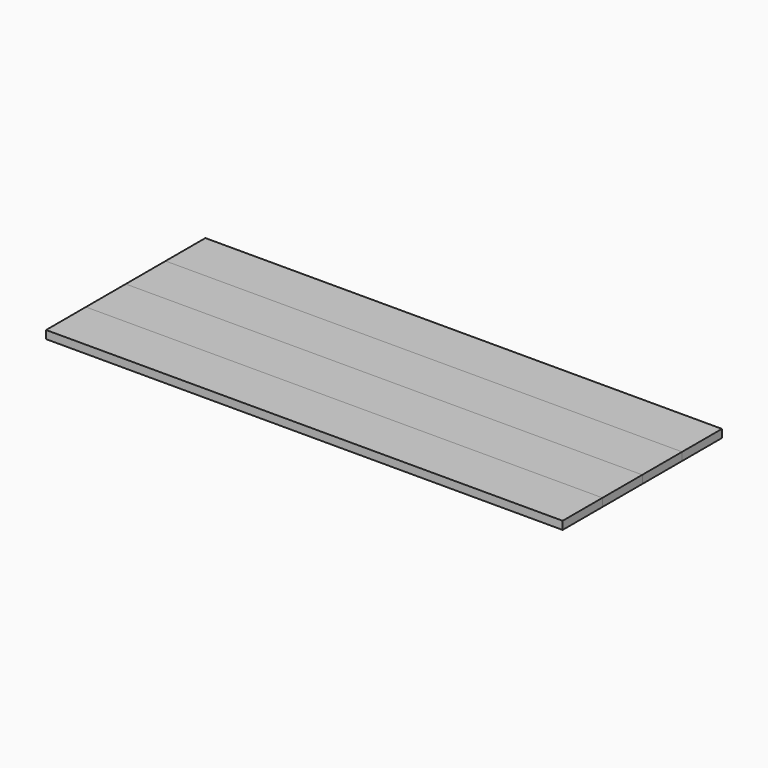
from build123d import *

# Parameters (mm, degrees)
F0_W     = 2438.4
F0_H     = 234.95
F1_DEPTH = 38.1


with BuildPart() as f1:
    # F0 (on Top) → F1 (new body)
    with BuildSketch(Plane.XY):
        with Locations((1219.2, 117.475)):
            Rectangle(F0_W, F0_H)
    extrude(amount=F1_DEPTH)


with BuildPart() as f2_1:
    # F2: instance of F1
    add(f1.part.mirror(Plane(origin=(1219.2, 234.95, 19.05), x_dir=(-1, 0, 0), z_dir=(0, 1, 0))))


with BuildPart() as f3_1:
    # F3: instance of F2_1
    add(f2_1.part.mirror(Plane(origin=(1219.2, 469.9, 19.05), x_dir=(-1, 0, 0), z_dir=(0, 1, 0))))


with BuildPart() as f3_2:
    # F3: instance of F1
    add(f1.part.mirror(Plane(origin=(1219.2, 469.9, 19.05), x_dir=(-1, 0, 0), z_dir=(0, 1, 0))))


solid = Compound([f1.part, f2_1.part, f3_1.part, f3_2.part])
